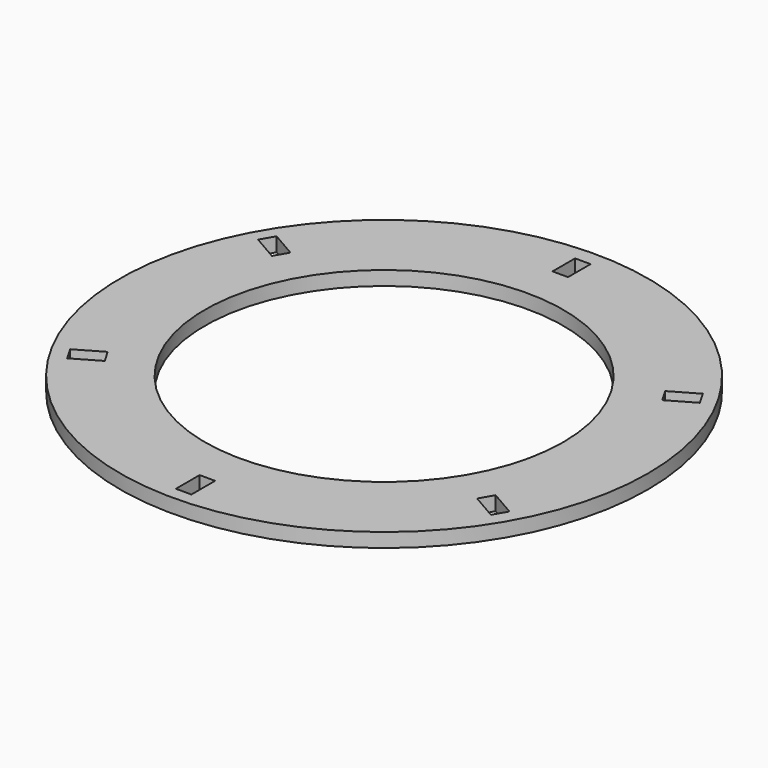
from build123d import *

# Parameters (mm, degrees)
F0_R     = 93.5
F0_W     = 5.5
F0_H     = 10.5
F0_R_2   = 63.5
F0_H_2   = 10
F1_DEPTH = 5


with BuildPart() as f1:
    # F0 (on Top) → F1 (new body)
    with BuildSketch(Plane.XY):
        Circle(F0_R)
        with Locations((0, -83.5)):
            Rectangle(F0_W, F0_H, mode=Mode.SUBTRACT)
        Polygon((-77.801742, -41.74343), (-68.708475, -36.49343), (-65.958475, -41.25657), (-75.051742, -46.50657), align=None, mode=Mode.SUBTRACT)
        Circle(F0_R_2, mode=Mode.SUBTRACT)
        Polygon((65.958475, -41.25657), (68.708475, -36.49343), (77.801742, -41.74343), (75.051742, -46.50657), align=None, mode=Mode.SUBTRACT)
        Polygon((-66.391488, 41.50657), (-69.141488, 36.74343), (-78.234755, 41.99343), (-75.484755, 46.75657), align=None, mode=Mode.SUBTRACT)
        with Locations((0, 83)):
            Rectangle(F0_W, F0_H_2, mode=Mode.SUBTRACT)
        Polygon((69.141488, 36.74343), (66.391488, 41.50657), (75.484755, 46.75657), (78.234755, 41.99343), align=None, mode=Mode.SUBTRACT)
    extrude(amount=F1_DEPTH)


solid = f1.part
